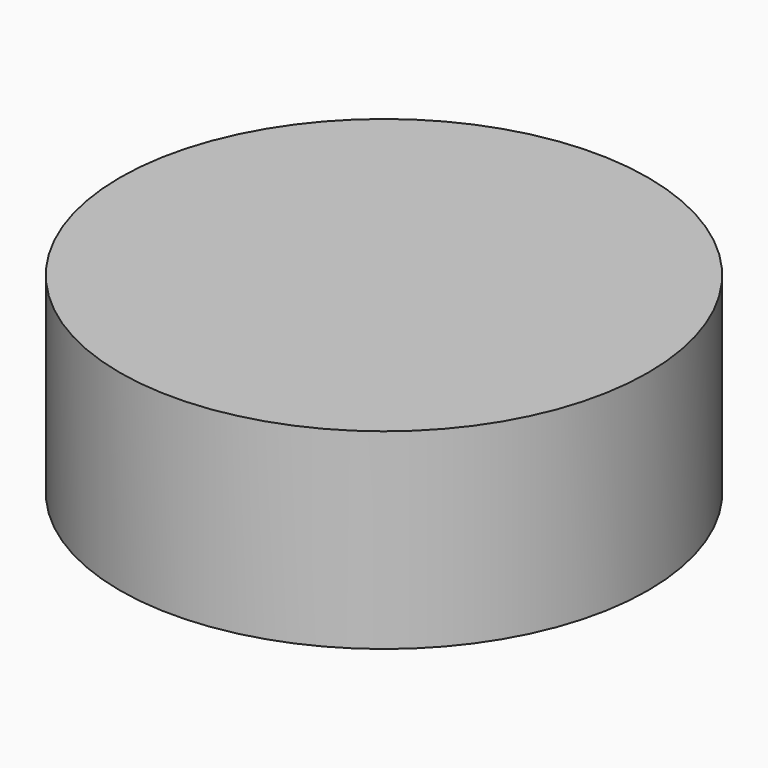
from build123d import *

# Parameters (mm, degrees)
F0_R      = 35
F1_DEPTH  = 25.4
F1_FACE_R = 35
F2_DEPTH  = 8
F3_DEPTH  = 10


with BuildPart() as f1:
    # F0 (on Top) → F1 (new body)
    with BuildSketch(Plane.XY):
        Circle(F0_R)
    extrude(amount=F1_DEPTH)

    # F1_face (on face) → F2 (join)
    with BuildSketch(Plane.XY.offset(25.4)):
        Circle(F1_FACE_R)
    extrude(amount=-F2_DEPTH)

    # F1_face (on face) → F3 (join)
    with BuildSketch(Plane.XY.offset(25.4)):
        Circle(F1_FACE_R)
    extrude(amount=-F3_DEPTH)


solid = f1.part
